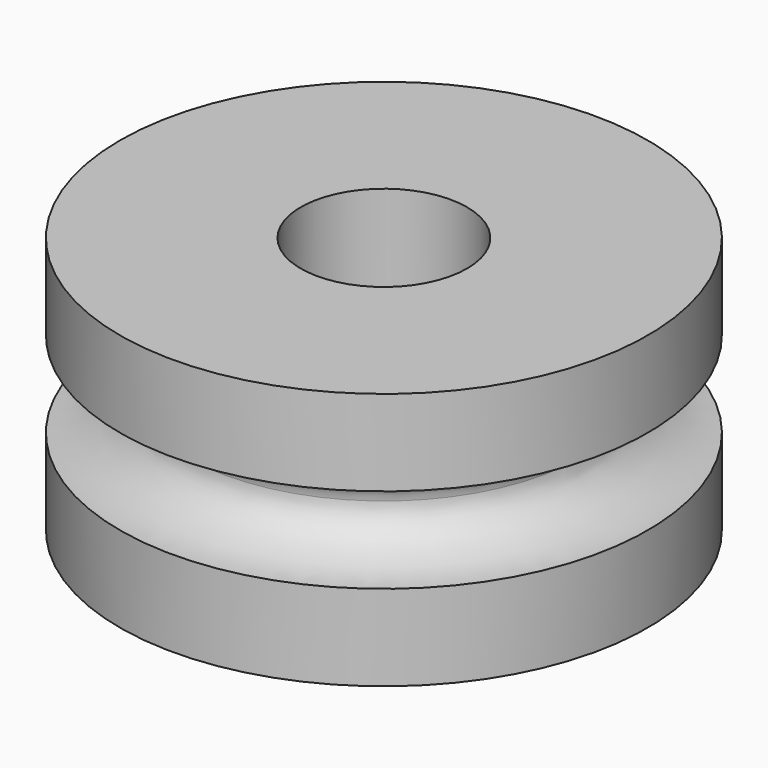
from build123d import *

# Parameters (mm, degrees)
F3_R     = 3.2
F4_DEPTH = 9.907
F5_R     = 9.16
F5_R_2   = 7.1798
F5_R_3   = 6.1798
F5_R_4   = 4.2
F6_DEPTH = 1


with BuildPart() as f1:
    # F0 (on Front) → F1 (revolve)
    with BuildSketch(Plane.XZ):
        Polygon((0, 0), (0, 4.953), (-10.16, 4.953), (-10.16, 1.6510004181), (-7.62, 1.6510004181), (-7.62, 0), align=None)
        with BuildLine():
            Line((-7.62, 1.6510004181), (-10.16, 1.6510004181))
            add(Edge.make_bspline(
                [(-7.62, 0), (-7.62, 0.8255002091), (-8.89, 1.6510004181), (-10.16, 1.6510004181)],
                knots=[0, 0, 0, 0, 3.0294227801, 3.0294227801, 3.0294227801, 3.0294227801], degree=3))
            Line((-7.62, 0), (-7.62, 1.6510004181))
        make_face()
    revolve(axis=Axis((0, 0, 12.7), (0, 0, 1)))

    # F2: F1 across plane


with BuildPart() as f1_1:
    add(f1.part)
    add(f1.part.mirror(Plane.XY))

    # F3 (on face) → F4 (cut, through all)
    with BuildSketch(Plane.XY.offset(4.953)):
        Circle(F3_R)
    extrude(amount=-F4_DEPTH, mode=Mode.SUBTRACT)

    # F5 (on face) → F6 (cut)
    with BuildSketch(Plane(origin=(0, 0, -4.953), x_dir=(1, 0, 0), z_dir=(0, 0, -1))):
        Circle(F5_R)
        Circle(F5_R_2, mode=Mode.SUBTRACT)
        Circle(F5_R_3)
        Circle(F5_R_4, mode=Mode.SUBTRACT)
    extrude(amount=-F6_DEPTH, mode=Mode.SUBTRACT)


solid = f1_1.part
